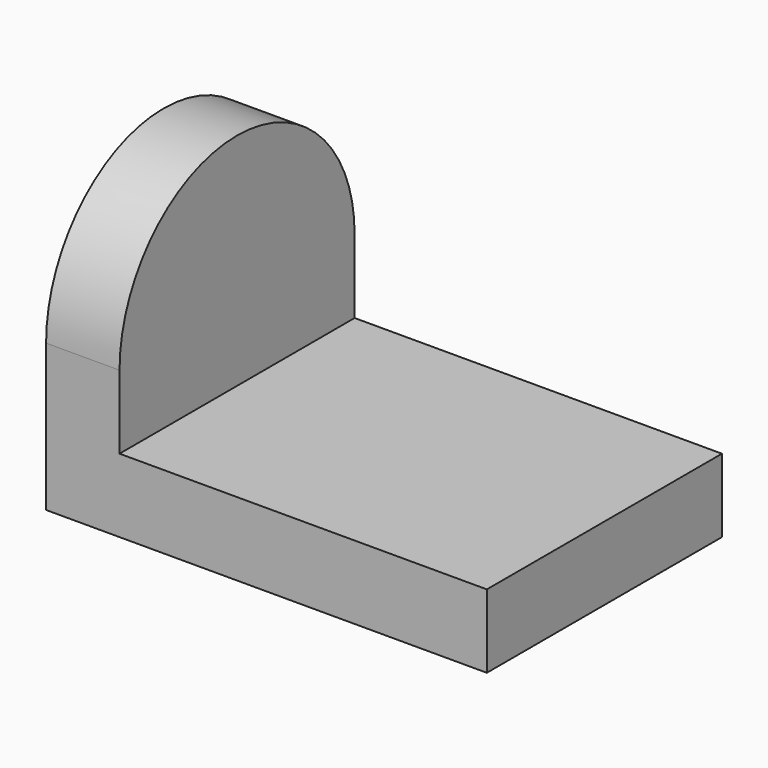
from build123d import *

# Parameters (mm, degrees)
F0_W     = 25.4
F0_H     = 6.35
F1_DEPTH = 38.1
F2_W     = 25.4
F2_H     = 6.35
F3_DEPTH = 6.35
F5_DEPTH = 6.35


with BuildPart() as f1:
    # F0 (on Right) → F1 (new body)
    with BuildSketch(Plane.YZ):
        with Locations((-12.7, 3.175)):
            Rectangle(F0_W, F0_H)
    extrude(amount=F1_DEPTH)

    # F2 (on Right) → F3 (join)
    with BuildSketch(Plane.YZ):
        with Locations((-12.7, 9.525)):
            Rectangle(F2_W, F2_H)
    extrude(amount=F3_DEPTH)

    # F4 (on Right) → F5 (join)
    with BuildSketch(Plane.YZ):
        with BuildLine():
            Line((-25.4, 12.7), (0, 12.7))
            ThreePointArc((0, 12.7), (-12.7, 25.4), (-25.4, 12.7))
        make_face()
    extrude(amount=F5_DEPTH)


solid = f1.part
